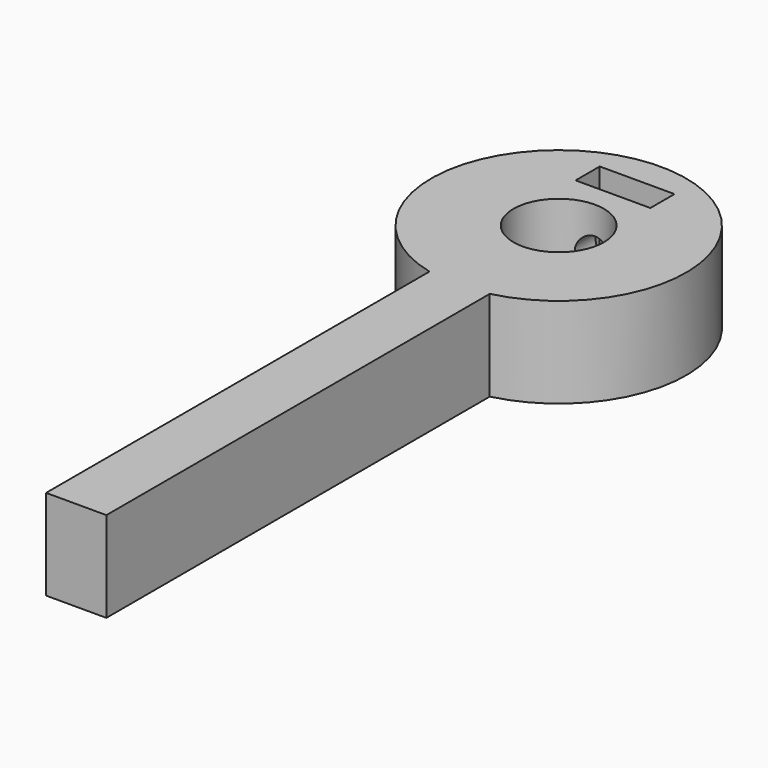
from build123d import *

# Parameters (mm, degrees)
F0_R          = 4.7625
F0_W          = 7.874
F0_H          = 3.175
F0_W_2        = 6.35
F0_H_2        = 50.455277787
F1_DEPTH      = 9.525
F2_R          = 1.8288
F3_DEPTH      = 4.1068004658
F3_DEPTH_BACK = 6.9213762462


with BuildPart() as f1:
    # F0 (on Top) → F1 (new body)
    with BuildSketch(Plane.XY):
        with BuildLine():
            Line((-3.175, -13.044722213), (3.175, -13.044722213))
            ThreePointArc((3.175, -13.044722213), (0, 13.4255503655), (-3.175, -13.044722213))
        make_face()
        Circle(F0_R, mode=Mode.SUBTRACT)
        with Locations((0, 8.73125)):
            Rectangle(F0_W, F0_H, mode=Mode.SUBTRACT)
        with Locations((0, -38.2723611065)):
            Rectangle(F0_W_2, F0_H_2)
    extrude(amount=F1_DEPTH)

    # F2 (on face) → F3 (cut, two sides)
    with BuildSketch(Plane.XZ.offset(-10.31875)) as f3_sk:
        with Locations((0, 4.7625)):
            Circle(F2_R)
    extrude(amount=-F3_DEPTH, mode=Mode.SUBTRACT)
    extrude(f3_sk.sketch, amount=F3_DEPTH_BACK, mode=Mode.SUBTRACT)


solid = f1.part
